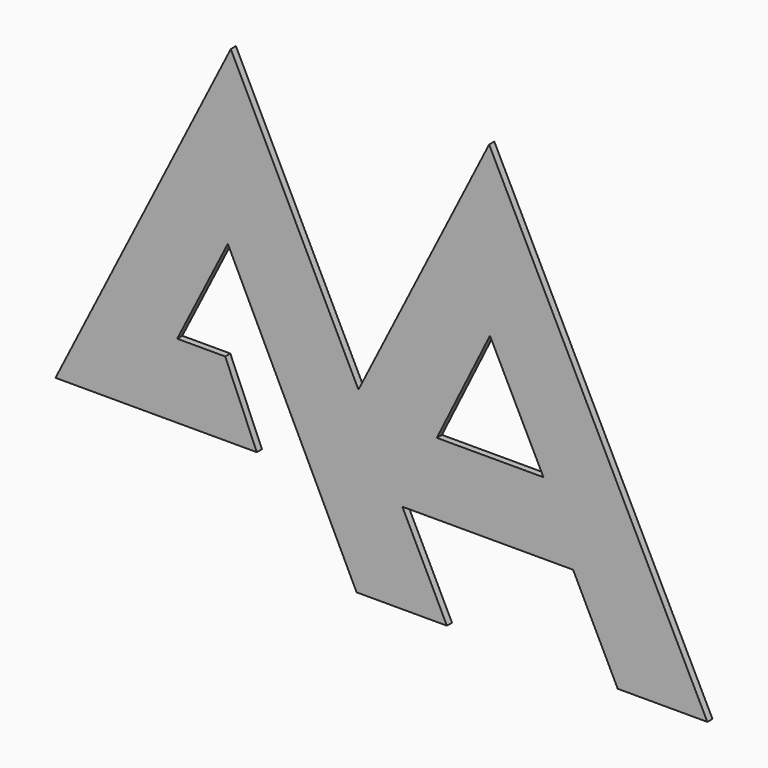
from build123d import *

# Parameters (mm, degrees)
F1_DEPTH = 25.4


with BuildPart() as f1:
    # F0 (on Front) → F1 (new body)
    with BuildSketch(Plane.XZ):
        Polygon((1216.897011, 111.135446), (699.904772, -910.812122), (873.352215, -1261.767488), (1549.018667, -1261.767488), (1725.527287, -1618.916869), (2080.108166, -1618.916869), align=None)
        Polygon((1009.884238, -977.725396), (1220.074177, -553.560615), (1431.711575, -977.725396), align=None, mode=Mode.SUBTRACT)
        Polygon((699.904772, -910.812122), (194.842845, 111.135446), (-498.459697, -1259.327769), (297.839284, -1259.327769), (172.859624, -966.518342), (-17.048992, -966.518342), (183.166239, -570.749406), (692.537963, -1618.916869), (1049.860835, -1618.916869), (873.352215, -1261.767488), align=None)
    extrude(amount=F1_DEPTH)


solid = f1.part
